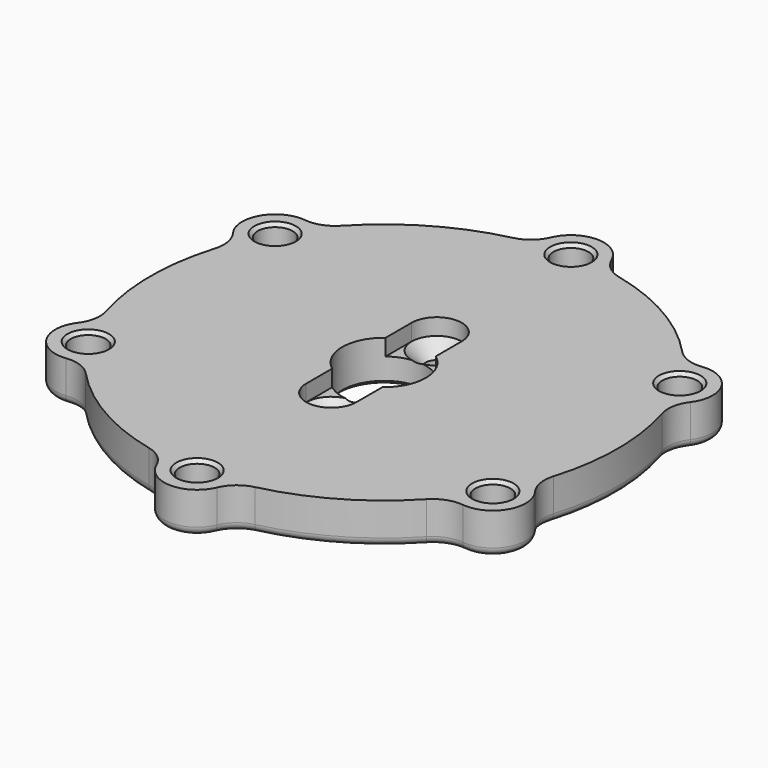
from build123d import *

# Parameters (mm, degrees)
SKETCH011_R         = 5.075
PAD004_DEPTH        = 5
POCKET005_DEPTH     = 2
HOLE003_D           = 2.7
HOLE003_CSINK_D     = 6.1
HOLE003_CSINK_ANGLE = 90
SKETCH016_R         = 2.125
POCKET006_DEPTH     = 5.001
FILLET_R            = 1
CHAMFER_SIZE        = 0.4


with BuildPart() as part:
    # Sketch011 → Pad004 (new body)
    with BuildSketch(Plane.XY):
        with BuildLine():
            ThreePointArc((3.675973, 29.952093), (0, 32.375), (-3.675973, 29.952093))
            ThreePointArc((-6.443598, 27.633687), (-4.783337, 28.462877), (-3.675973, 29.952093))
            ThreePointArc((-6.443598, 27.633687), (-14.1875, 24.573471), (-20.709676, 19.397163))
            ThreePointArc((-24.101286, 18.159532), (-22.257905, 18.37393), (-20.709676, 19.397163))
            ThreePointArc((-24.101286, 18.159532), (-28.037572, 16.1875), (-27.77726, 11.79256))
            ThreePointArc((-27.153274, 8.236524), (-27.041243, 10.088947), (-27.77726, 11.79256))
            ThreePointArc((-27.153274, 8.236524), (-28.375, 0), (-27.153274, -8.236524))
            ThreePointArc((-27.77726, -11.79256), (-27.041243, -10.088947), (-27.153274, -8.236524))
            ThreePointArc((-27.77726, -11.79256), (-28.037572, -16.1875), (-24.101286, -18.159532))
            ThreePointArc((-20.709676, -19.397163), (-22.257905, -18.37393), (-24.101286, -18.159532))
            ThreePointArc((-20.709676, -19.397163), (-14.1875, -24.573471), (-6.443598, -27.633687))
            ThreePointArc((-3.675973, -29.952093), (-4.783337, -28.462877), (-6.443598, -27.633687))
            ThreePointArc((-3.675973, -29.952093), (0, -32.375), (3.675973, -29.952093))
            ThreePointArc((6.443598, -27.633687), (4.783337, -28.462877), (3.675973, -29.952093))
            ThreePointArc((6.443598, -27.633687), (14.1875, -24.573471), (20.709676, -19.397163))
            ThreePointArc((24.101286, -18.159532), (22.257905, -18.37393), (20.709676, -19.397163))
            ThreePointArc((24.101286, -18.159532), (28.037572, -16.1875), (27.77726, -11.79256))
            ThreePointArc((27.153274, -8.236524), (27.041243, -10.088947), (27.77726, -11.79256))
            ThreePointArc((27.153274, -8.236524), (28.375, 0), (27.153274, 8.236524))
            ThreePointArc((27.77726, 11.79256), (27.041243, 10.088947), (27.153274, 8.236524))
            ThreePointArc((27.77726, 11.79256), (28.037572, 16.1875), (24.101286, 18.159532))
            ThreePointArc((20.709676, 19.397163), (22.257905, 18.37393), (24.101286, 18.159532))
            ThreePointArc((20.709676, 19.397163), (14.1875, 24.573471), (6.443598, 27.633687))
            ThreePointArc((3.675973, 29.952093), (4.783337, 28.462877), (6.443598, 27.633687))
        make_face()
        Circle(SKETCH011_R, mode=Mode.SUBTRACT)
    extrude(amount=PAD004_DEPTH)

    # Sketch014 → Pocket005 (cut)
    with BuildSketch(Plane.XY.offset(5)):
        with BuildLine():
            ThreePointArc((3.05, 8), (0, 11.05), (-3.05, 8))
            Line((-3.05, 8), (-3.05, -8))
            ThreePointArc((-3.05, -8), (0, -11.05), (3.05, -8))
            Line((3.05, -8), (3.05, 8))
        make_face()
    extrude(amount=-POCKET005_DEPTH, mode=Mode.SUBTRACT)

    # Hole003 (through all)
    with Locations(Plane.XY.offset(3)):
        with Locations((0, 8), (0, -8)):
            CounterSinkHole(HOLE003_D / 2, HOLE003_CSINK_D / 2, counter_sink_angle=HOLE003_CSINK_ANGLE)

    # Sketch016 → Pocket006 (cut, through all)
    with BuildSketch(Plane.XY):
        with Locations((0, 28.375)):
            Circle(SKETCH016_R)
        with Locations((24.573471, -14.1875)):
            Circle(SKETCH016_R)
        with Locations((-24.573471, -14.1875)):
            Circle(SKETCH016_R)
        with Locations((24.573471, 14.1875)):
            Circle(SKETCH016_R)
        with Locations((0, -28.375)):
            Circle(SKETCH016_R)
        with Locations((-24.573471, 14.1875)):
            Circle(SKETCH016_R)
    extrude(amount=POCKET006_DEPTH, mode=Mode.SUBTRACT)

    # Fillet
    fillet_edges = [part.edges().sort_by_distance(p)[0] for p in [
        (-14.1875, -24.573471, 0),
    ]]
    fillet(fillet_edges, radius=FILLET_R)

    # Chamfer
    chamfer_edges = [part.edges().sort_by_distance(p)[0] for p in [
        (-5.075, 0, 0),
        (22.448471, 14.1875, 0),
        (22.448471, -14.1875, 0),
        (-2.125, -28.375, 0),
        (-26.698471, -14.1875, 0),
        (-26.698471, 14.1875, 0),
        (-2.125, 28.375, 0),
        (-26.698471, -14.1875, 5),
        (-26.698471, 14.1875, 5),
        (-2.125, 28.375, 5),
        (22.448471, 14.1875, 5),
        (22.448471, -14.1875, 5),
        (-2.125, -28.375, 5),
    ]]
    chamfer(chamfer_edges, length=CHAMFER_SIZE)


with BuildPart() as part_1:
    # Body006 placement: moved
    add(part.part.moved(Location((0, 0, -5))))


solid = part_1.part
